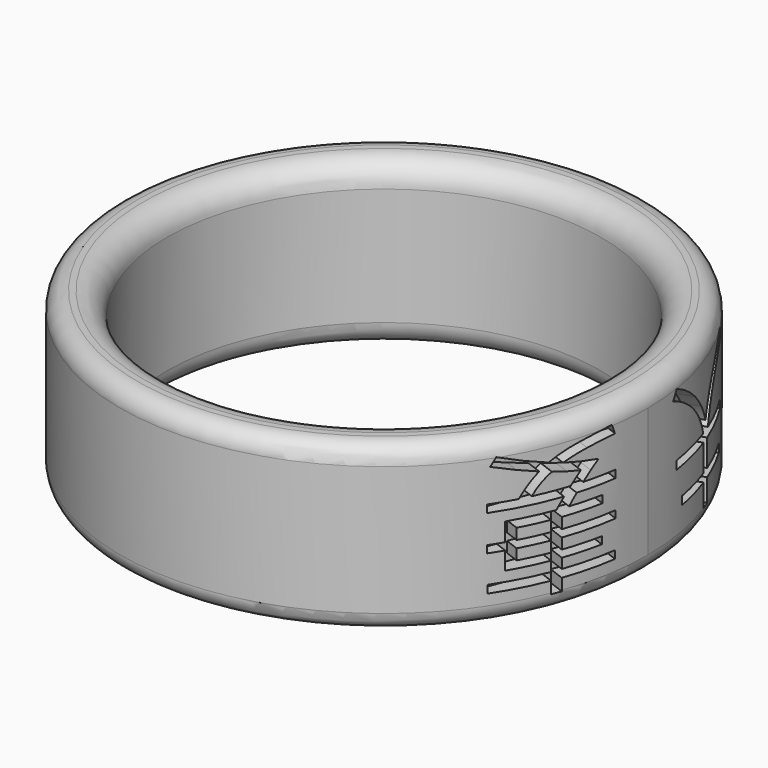
from build123d import *

# Parameters (mm, degrees)
F0_R           = 11.23
F0_R_2         = 9.23
F1_DEPTH       = 7
F3_R           = 0.75
F4_R           = 1
F10_W          = 1.27305
F10_H          = 0.45333
F10_H_2        = 0.45954
F11_DEPTH      = 1
F11_DEPTH_BACK = 1
F12_DEPTH      = 1
F12_DEPTH_BACK = 1


with BuildPart() as f1:
    # F0 (on Top) → F1 (new body)
    with BuildSketch(Plane.XY):
        Circle(F0_R)
        Circle(F0_R_2, mode=Mode.SUBTRACT)
    extrude(amount=F1_DEPTH)

    # F3
    f3_edges = [f1.edges().sort_by_distance(p)[0] for p in [
        (-11.23, 0, 7),
        (-11.23, 0, 0),
    ]]
    fillet(f3_edges, radius=F3_R)

    # F4
    f4_edges = [f1.edges().sort_by_distance(p)[0] for p in [
        (-9.23, 0, 7),
        (-9.23, 0, 0),
    ]]
    fillet(f4_edges, radius=F4_R)

    # F10 (on line) → F11 (cut, two sides)
    with BuildSketch(Plane(origin=(10.770473001, -4.0569101331, 0), x_dir=(0.3524929013, 0.9358144873, 0), z_dir=(0.9358144873, -0.3524929013, 0))) as f11_sk:
        with BuildLine():
            add(Edge.make_bspline(
                [(-2.197783, 6.274705), (-1.850023, 6.154645), (-1.520893, 6.042865), (-1.210393, 5.939365)],
                knots=[0, 0, 0, 0, 1, 1, 1, 1], degree=3))
            Line((-2.197783, 6.274705), (-2.408923, 5.945575))
            add(Edge.make_bspline(
                [(-1.489843, 5.659915), (-1.779643, 5.746855), (-2.086003, 5.842075), (-2.408923, 5.945575)],
                knots=[0, 0, 0, 0, 1, 1, 1, 1], degree=3))
            add(Edge.make_bspline(
                [(-0.657703, 5.417725), (-0.926803, 5.492245), (-1.204183, 5.572975), (-1.489843, 5.659915)],
                knots=[0, 0, 0, 0, 1, 1, 1, 1], degree=3))
            add(Edge.make_bspline(
                [(-1.402903, 4.554535), (-1.183483, 4.906435), (-0.935083, 5.194165), (-0.657703, 5.417725)],
                knots=[0, 0, 0, 0, 1, 1, 1, 1], degree=3))
            Line((-1.402903, 4.554535), (-2.514493, 4.554535))
            Line((-2.514493, 4.554535), (-2.514493, 4.231615))
            Line((-2.514493, 4.231615), (0.292427, 4.231615))
            add(Edge.make_bspline(
                [(0.137177, 4.020475), (0.186857, 4.090855), (0.238607, 4.161235), (0.292427, 4.231615)],
                knots=[0, 0, 0, 0, 1, 1, 1, 1], degree=3))
            add(Edge.make_bspline(
                [(-0.005653, 3.809335), (0.039887, 3.879715), (0.087497, 3.950095), (0.137177, 4.020475)],
                knots=[0, 0, 0, 0, 1, 1, 1, 1], degree=3))
            Line((-0.005653, 3.809335), (-1.887283, 3.809335))
            Line((-1.887283, 3.809335), (-1.887283, 3.033085))
            Line((-1.887283, 3.033085), (-2.520703, 3.033085))
            Line((-2.520703, 3.033085), (-2.520703, 2.722585))
            Line((-2.520703, 2.722585), (-1.887283, 2.722585))
            Line((-1.887283, 2.722585), (-1.887283, 1.964965))
            Line((-1.887283, 1.964965), (-0.210583, 1.964965))
            Line((-0.210583, 1.964965), (-0.210583, 1.542685))
            Line((-0.210583, 1.542685), (-2.495863, 1.542685))
            Line((-2.495863, 1.542685), (-2.495863, 1.213555))
            Line((-2.495863, 1.213555), (-0.210583, 1.213555))
            Line((-0.210583, 1.213555), (-0.210583, 0.704335))
            Line((-0.210583, 0.704335), (0.205487, 0.704335))
            Line((0.205487, 0.704335), (0.205487, 1.213555))
            Line((0.205487, 1.213555), (2.416247, 1.213555))
            Line((2.416247, 1.213555), (2.416247, 1.542685))
            Line((2.416247, 1.542685), (0.205487, 1.542685))
            Line((0.205487, 1.542685), (0.205487, 1.964965))
            Line((0.205487, 1.964965), (1.838717, 1.964965))
            Line((1.838717, 1.964965), (1.838717, 2.269255))
            Line((1.838717, 2.269255), (0.205487, 2.269255))
            Line((0.205487, 2.269255), (0.205487, 2.722585))
            Line((0.205487, 2.722585), (2.441087, 2.722585))
            Line((2.441087, 2.722585), (2.441087, 3.033085))
            Line((2.441087, 3.033085), (0.205487, 3.033085))
            Line((0.205487, 3.033085), (0.205487, 3.492625))
            Line((0.205487, 3.492625), (1.863557, 3.492625))
            Line((1.863557, 3.492625), (1.863557, 3.809335))
            Line((1.863557, 3.809335), (0.491147, 3.809335))
            add(Edge.make_bspline(
                [(0.633977, 4.020475), (0.584297, 3.950095), (0.536687, 3.879715), (0.491147, 3.809335)],
                knots=[0, 0, 0, 0, 1, 1, 1, 1], degree=3))
            add(Edge.make_bspline(
                [(0.795437, 4.231615), (0.737477, 4.161235), (0.683657, 4.090855), (0.633977, 4.020475)],
                knots=[0, 0, 0, 0, 1, 1, 1, 1], degree=3))
            Line((0.795437, 4.231615), (2.434877, 4.231615))
            Line((2.434877, 4.231615), (2.434877, 4.554535))
            Line((2.434877, 4.554535), (1.062467, 4.554535))
            add(Edge.make_bspline(
                [(1.372967, 4.902295), (1.265327, 4.790515), (1.161827, 4.674595), (1.062467, 4.554535)],
                knots=[0, 0, 0, 0, 1, 1, 1, 1], degree=3))
            add(Edge.make_bspline(
                [(1.702097, 5.219005), (1.590317, 5.115505), (1.480607, 5.009935), (1.372967, 4.902295)],
                knots=[0, 0, 0, 0, 1, 1, 1, 1], degree=3))
            add(Edge.make_bspline(
                [(0.963107, 5.355625), (1.199087, 5.305945), (1.445417, 5.260405), (1.702097, 5.219005)],
                knots=[0, 0, 0, 0, 1, 1, 1, 1], degree=3))
            add(Edge.make_bspline(
                [(0.255167, 5.510875), (0.491147, 5.452915), (0.727127, 5.401165), (0.963107, 5.355625)],
                knots=[0, 0, 0, 0, 1, 1, 1, 1], degree=3))
            add(Edge.make_bspline(
                [(1.223927, 5.784115), (0.863747, 5.722015), (0.540827, 5.630935), (0.255167, 5.510875)],
                knots=[0, 0, 0, 0, 1, 1, 1, 1], degree=3))
            add(Edge.make_bspline(
                [(2.416247, 5.914525), (1.977407, 5.893825), (1.579967, 5.850355), (1.223927, 5.784115)],
                knots=[0, 0, 0, 0, 1, 1, 1, 1], degree=3))
            Line((2.416247, 5.914525), (2.279627, 6.287125))
            add(Edge.make_bspline(
                [(0.838907, 6.088405), (1.261187, 6.179485), (1.741427, 6.245725), (2.279627, 6.287125)],
                knots=[0, 0, 0, 0, 1, 1, 1, 1], degree=3))
            add(Edge.make_bspline(
                [(-0.303733, 5.666125), (0.031607, 5.860705), (0.412487, 6.001465), (0.838907, 6.088405)],
                knots=[0, 0, 0, 0, 1, 1, 1, 1], degree=3))
            add(Edge.make_bspline(
                [(-1.210393, 5.939365), (-0.904033, 5.840005), (-0.601813, 5.748925), (-0.303733, 5.666125)],
                knots=[0, 0, 0, 0, 1, 1, 1, 1], degree=3))
        make_face()
        with Locations((-0.847108, 2.49592)):
            Rectangle(F10_W, F10_H, mode=Mode.SUBTRACT)
        with Locations((-0.847108, 3.262855)):
            Rectangle(F10_W, F10_H_2, mode=Mode.SUBTRACT)
        with BuildLine():
            add(Edge.make_bspline(
                [(0.963107, 5.026495), (0.776807, 5.063755), (0.590507, 5.103085), (0.404207, 5.144485)],
                knots=[0, 0, 0, 0, 1, 1, 1, 1], degree=3))
            add(Edge.make_bspline(
                [(0.764387, 4.802935), (0.830627, 4.881595), (0.896867, 4.956115), (0.963107, 5.026495)],
                knots=[0, 0, 0, 0, 1, 1, 1, 1], degree=3))
            add(Edge.make_bspline(
                [(0.553247, 4.554535), (0.623627, 4.641475), (0.694007, 4.724275), (0.764387, 4.802935)],
                knots=[0, 0, 0, 0, 1, 1, 1, 1], degree=3))
            Line((0.553247, 4.554535), (-0.930943, 4.554535))
            add(Edge.make_bspline(
                [(-0.179533, 5.287315), (-0.498313, 5.088595), (-0.748783, 4.844335), (-0.930943, 4.554535)],
                knots=[0, 0, 0, 0, 1, 1, 1, 1], degree=3))
            add(Edge.make_bspline(
                [(0.404207, 5.144485), (0.213767, 5.185885), (0.019187, 5.233495), (-0.179533, 5.287315)],
                knots=[0, 0, 0, 0, 1, 1, 1, 1], degree=3))
        make_face(mode=Mode.SUBTRACT)
    extrude(amount=F11_DEPTH, mode=Mode.SUBTRACT)
    extrude(f11_sk.sketch, amount=-F11_DEPTH_BACK, mode=Mode.SUBTRACT)

    # F9 (on line) → F12 (cut, two sides)
    with BuildSketch(Plane(origin=(10.770473001, 4.0569101331, 0), x_dir=(-0.3524929013, 0.9358144873, 0), z_dir=(0.9358144873, 0.3524929013, 0))) as f12_sk:
        with BuildLine():
            add(Edge.make_bspline(
                [(-2.3229412038, 6.2385510711), (-2.0869612038, 6.1267710711), (-1.8530512038, 5.9922210711), (-1.6212112038, 5.8349010711)],
                knots=[0, 0, 0, 0, 1, 1, 1, 1], degree=3))
            Line((-2.3229412038, 6.2385510711), (-2.5527112038, 5.8721610711))
            add(Edge.make_bspline(
                [(-1.7826712038, 5.4560910711), (-2.0269312038, 5.6175510711), (-2.2836112038, 5.7562410711), (-2.5527112038, 5.8721610711)],
                knots=[0, 0, 0, 0, 1, 1, 1, 1], degree=3))
            add(Edge.make_bspline(
                [(-1.1057812038, 4.9158210711), (-1.3127812038, 5.1104010711), (-1.5384112038, 5.2904910711), (-1.7826712038, 5.4560910711)],
                knots=[0, 0, 0, 0, 1, 1, 1, 1], degree=3))
            add(Edge.make_bspline(
                [(-0.5717212038, 4.2761910711), (-0.7249012038, 4.5038910711), (-0.9029212038, 4.7171010711), (-1.1057812038, 4.9158210711)],
                knots=[0, 0, 0, 0, 1, 1, 1, 1], degree=3))
            add(Edge.make_bspline(
                [(-0.2239612038, 3.5620410711), (-0.3067612038, 3.8104410711), (-0.4226812038, 4.0484910711), (-0.5717212038, 4.2761910711)],
                knots=[0, 0, 0, 0, 1, 1, 1, 1], degree=3))
            Line((-0.2239612038, 3.5620410711), (-2.3539912038, 3.5620410711))
            Line((-2.3539912038, 3.5620410711), (-2.3539912038, 3.2080710711))
            Line((-2.3539912038, 3.2080710711), (-0.1929112038, 3.2080710711))
            Line((-0.1929112038, 3.2080710711), (-0.1929112038, 2.0654310711))
            Line((-0.1929112038, 2.0654310711), (-1.9876012038, 2.0654310711))
            Line((-1.9876012038, 2.0654310711), (-1.9876012038, 1.7176710711))
            Line((-1.9876012038, 1.7176710711), (-0.1929112038, 1.7176710711))
            Line((-0.1929112038, 1.7176710711), (-0.1929112038, 0.7551210711))
            Line((-0.1929112038, 0.7551210711), (0.1983187962, 0.7551210711))
            Line((0.1983187962, 0.7551210711), (0.1983187962, 1.7176710711))
            Line((0.1983187962, 1.7176710711), (1.9867987962, 1.7176710711))
            Line((1.9867987962, 1.7176710711), (1.9867987962, 2.0654310711))
            Line((1.9867987962, 2.0654310711), (0.1983187962, 2.0654310711))
            Line((0.1983187962, 2.0654310711), (0.1983187962, 3.2080710711))
            Line((0.1983187962, 3.2080710711), (2.3345587962, 3.2080710711))
            Line((2.3345587962, 3.2080710711), (2.3345587962, 3.5620410711))
            Line((2.3345587962, 3.5620410711), (0.2852587962, 3.5620410711))
            add(Edge.make_bspline(
                [(0.5647087962, 4.2637710711), (0.4405087962, 4.0319310711), (0.3473587962, 3.7980210711), (0.2852587962, 3.5620410711)],
                knots=[0, 0, 0, 0, 1, 1, 1, 1], degree=3))
            add(Edge.make_bspline(
                [(1.0242487962, 4.9220310711), (0.8379487962, 4.7150310711), (0.6847687962, 4.4956110711), (0.5647087962, 4.2637710711)],
                knots=[0, 0, 0, 0, 1, 1, 1, 1], degree=3))
            add(Edge.make_bspline(
                [(1.6762987962, 5.4933510711), (1.4237587962, 5.3153310711), (1.2064087962, 5.1248910711), (1.0242487962, 4.9220310711)],
                knots=[0, 0, 0, 0, 1, 1, 1, 1], degree=3))
            add(Edge.make_bspline(
                [(2.5332787962, 5.9404710711), (2.2103587962, 5.8162710711), (1.9246987962, 5.6672310711), (1.6762987962, 5.4933510711)],
                knots=[0, 0, 0, 0, 1, 1, 1, 1], degree=3))
            Line((2.5332787962, 5.9404710711), (2.3283487962, 6.2944410711))
            add(Edge.make_bspline(
                [(0.8876287962, 5.3318910711), (1.2892087962, 5.7293310711), (1.7694487962, 6.0501810711), (2.3283487962, 6.2944410711)],
                knots=[0, 0, 0, 0, 1, 1, 1, 1], degree=3))
            add(Edge.make_bspline(
                [(0.0120187962, 3.9594810711), (0.1941787962, 4.4728410711), (0.4860487962, 4.9303110711), (0.8876287962, 5.3318910711)],
                knots=[0, 0, 0, 0, 1, 1, 1, 1], degree=3))
            add(Edge.make_bspline(
                [(-0.4040512038, 4.6736310711), (-0.2343112038, 4.4459310711), (-0.0956212038, 4.2078810711), (0.0120187962, 3.9594810711)],
                knots=[0, 0, 0, 0, 1, 1, 1, 1], degree=3))
            add(Edge.make_bspline(
                [(-0.9629512038, 5.3070510711), (-0.7600912038, 5.1083310711), (-0.5737912038, 4.8971910711), (-0.4040512038, 4.6736310711)],
                knots=[0, 0, 0, 0, 1, 1, 1, 1], degree=3))
            add(Edge.make_bspline(
                [(-1.6212112038, 5.8349010711), (-1.3893712038, 5.6775810711), (-1.1699512038, 5.5016310711), (-0.9629512038, 5.3070510711)],
                knots=[0, 0, 0, 0, 1, 1, 1, 1], degree=3))
        make_face()
    extrude(amount=F12_DEPTH, mode=Mode.SUBTRACT)
    extrude(f12_sk.sketch, amount=-F12_DEPTH_BACK, mode=Mode.SUBTRACT)


solid = f1.part
